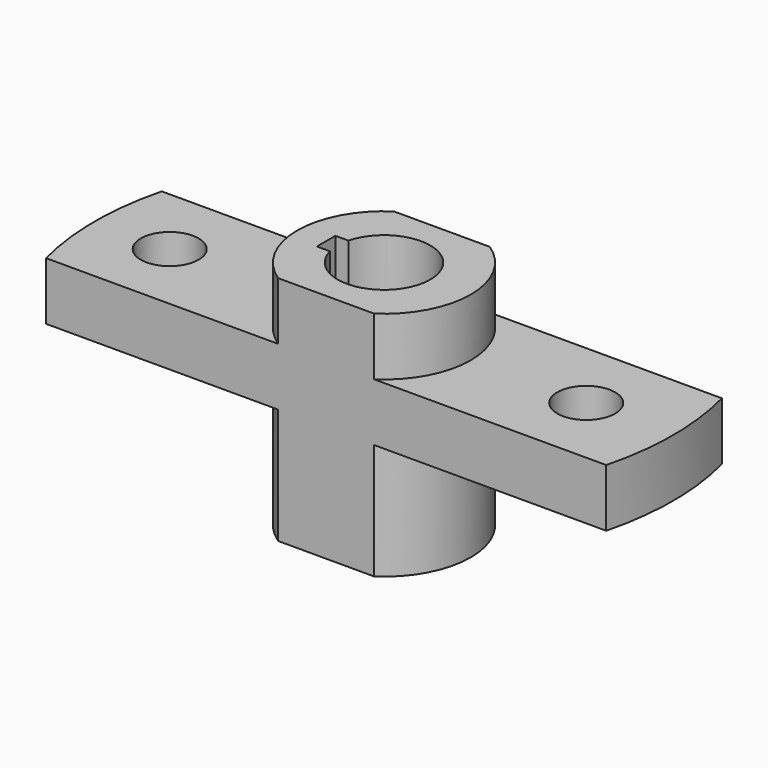
from build123d import *

# Parameters (mm, degrees)
F1_DEPTH      = 20
F1_DEPTH_BACK = 20
F0_R          = 5
F2_DEPTH      = 10


with BuildPart() as f1:
    # F0 (on Top) → F1 (new body, two sides)
    with BuildSketch(Plane.XY) as f1_sk:
        with BuildLine():
            Line((8.291562, 12.5), (-8.291562, 12.5))
            ThreePointArc((-8.291562, 12.5), (-15, 0), (-8.291562, -12.5))
            Line((-8.291562, -12.5), (8.291562, -12.5))
            ThreePointArc((8.291562, -12.5), (15, 0), (8.291562, 12.5))
        make_face()
        with BuildLine():
            ThreePointArc((-7.745967, 2), (8, 0), (-7.745967, -2))
            Line((-7.745967, -2), (-10, -2))
            Line((-10, -2), (-10, 2))
            Line((-10, 2), (-7.745967, 2))
        make_face(mode=Mode.SUBTRACT)
    extrude(amount=F1_DEPTH)
    extrude(f1_sk.sketch, amount=-F1_DEPTH_BACK)

    # F0 (on Top) → F2 (join)
    with BuildSketch(Plane.XY):
        with BuildLine():
            Line((8.291562, 12.5), (-8.291562, 12.5))
            ThreePointArc((-8.291562, 12.5), (-15, 0), (-8.291562, -12.5))
            Line((-8.291562, -12.5), (8.291562, -12.5))
            ThreePointArc((8.291562, -12.5), (15, 0), (8.291562, 12.5))
        make_face()
        with BuildLine():
            ThreePointArc((-7.745967, 2), (8, 0), (-7.745967, -2))
            Line((-7.745967, -2), (-10, -2))
            Line((-10, -2), (-10, 2))
            Line((-10, 2), (-7.745967, 2))
        make_face(mode=Mode.SUBTRACT)
        with BuildLine():
            ThreePointArc((-8.291562, -12.5), (-15, 0), (-8.291562, 12.5))
            Line((-8.291562, 12.5), (-48.412292, 12.5))
            ThreePointArc((-48.412292, 12.5), (-50, 0), (-48.412292, -12.5))
            Line((-48.412292, -12.5), (-8.291562, -12.5))
        make_face()
        with Locations((-37.03944, 0)):
            Circle(F0_R, mode=Mode.SUBTRACT)
        with BuildLine():
            Line((48.412292, 12.5), (8.291562, 12.5))
            ThreePointArc((8.291562, 12.5), (15, 0), (8.291562, -12.5))
            Line((8.291562, -12.5), (48.412292, -12.5))
            ThreePointArc((48.412292, -12.5), (50, 0), (48.412292, 12.5))
        make_face()
        with Locations((34.96056, 0)):
            Circle(F0_R, mode=Mode.SUBTRACT)
    extrude(amount=F2_DEPTH)


solid = f1.part
